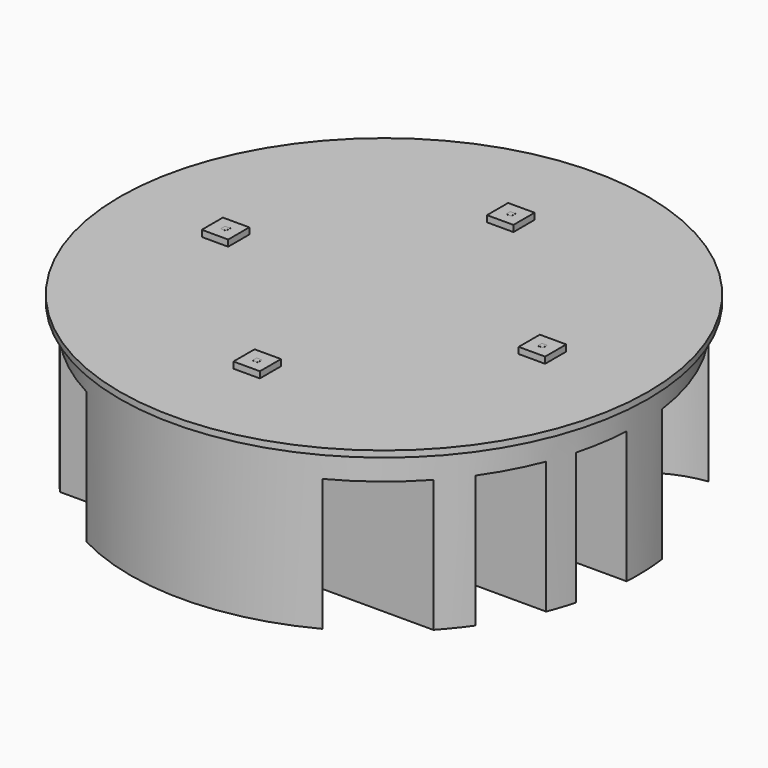
from build123d import *

# Parameters (mm, degrees)
CYLINDER_R        = 50
CYLINDER_DEPTH    = 1.2
CYLINDER001_R     = 48
CYLINDER001_DEPTH = 0.03
BOX_W             = 5
BOX_H             = 5
BOX_DEPTH         = 1.2
BOX001_W          = 5
BOX001_H          = 5
BOX001_DEPTH      = 1.2
BOX002_W          = 5
BOX002_H          = 5
BOX002_DEPTH      = 1.2
BOX003_W          = 5
BOX003_H          = 5
BOX003_DEPTH      = 1.2
BOX004_W          = 1
BOX004_H          = 1
BOX004_DEPTH      = 0.015
BOX005_W          = 1
BOX005_H          = 1
BOX005_DEPTH      = 0.015
BOX006_W          = 1
BOX006_H          = 1
BOX006_DEPTH      = 0.015
BOX007_W          = 1
BOX007_H          = 1
BOX007_DEPTH      = 0.015
SKETCH_R          = 48
EXTRUDE_DEPTH     = 30
SKETCH001_W       = 100
SKETCH001_H       = 10
POCKET_DEPTH      = 25


with BuildPart() as pcb:
    # Cylinder → Cylinder (new body)
    with BuildSketch(Plane.XY):
        Circle(CYLINDER_R)
    extrude(amount=CYLINDER_DEPTH)


with BuildPart() as obj1:
    # Cylinder001 → Cylinder001 (new body)
    with BuildSketch(Plane.XY.offset(-0.03)):
        Circle(CYLINDER001_R)
    extrude(amount=CYLINDER001_DEPTH)


with BuildPart() as slug01:
    # Box → Box (new body)
    with BuildSketch(Plane(origin=(-2.5, 27.5, 1.2), x_dir=(1, 0, 0), z_dir=(0, 0, 1))):
        with Locations((2.5, 2.5)):
            Rectangle(BOX_W, BOX_H)
    extrude(amount=BOX_DEPTH)


with BuildPart() as slug02:
    # Box001 → Box001 (new body)
    with BuildSketch(Plane(origin=(27.5, -2.5, 1.2), x_dir=(1, 0, 0), z_dir=(0, 0, 1))):
        with Locations((2.5, 2.5)):
            Rectangle(BOX001_W, BOX001_H)
    extrude(amount=BOX001_DEPTH)


with BuildPart() as slug03:
    # Box002 → Box002 (new body)
    with BuildSketch(Plane(origin=(-2.5, -32.5, 1.2), x_dir=(1, 0, 0), z_dir=(0, 0, 1))):
        with Locations((2.5, 2.5)):
            Rectangle(BOX002_W, BOX002_H)
    extrude(amount=BOX002_DEPTH)


with BuildPart() as slug04:
    # Box003 → Box003 (new body)
    with BuildSketch(Plane(origin=(-32.5, -2.5, 1.2), x_dir=(1, 0, 0), z_dir=(0, 0, 1))):
        with Locations((2.5, 2.5)):
            Rectangle(BOX003_W, BOX003_H)
    extrude(amount=BOX003_DEPTH)


with BuildPart() as led01:
    # Box004 → Box004 (new body)
    with BuildSketch(Plane(origin=(-0.5, 29.5, 2.4), x_dir=(1, 0, 0), z_dir=(0, 0, 1))):
        with Locations((0.5, 0.5)):
            Rectangle(BOX004_W, BOX004_H)
    extrude(amount=BOX004_DEPTH)


with BuildPart() as led02:
    # Box005 → Box005 (new body)
    with BuildSketch(Plane(origin=(29.5, -0.5, 2.4), x_dir=(1, 0, 0), z_dir=(0, 0, 1))):
        with Locations((0.5, 0.5)):
            Rectangle(BOX005_W, BOX005_H)
    extrude(amount=BOX005_DEPTH)


with BuildPart() as led03:
    # Box006 → Box006 (new body)
    with BuildSketch(Plane(origin=(-0.5, -30.5, 2.4), x_dir=(1, 0, 0), z_dir=(0, 0, 1))):
        with Locations((0.5, 0.5)):
            Rectangle(BOX006_W, BOX006_H)
    extrude(amount=BOX006_DEPTH)


with BuildPart() as led04:
    # Box007 → Box007 (new body)
    with BuildSketch(Plane(origin=(-30.5, -0.5, 2.4), x_dir=(1, 0, 0), z_dir=(0, 0, 1))):
        with Locations((0.5, 0.5)):
            Rectangle(BOX007_W, BOX007_H)
    extrude(amount=BOX007_DEPTH)


with BuildPart() as heatsink:
    # Sketch → Extrude (new body)
    with BuildSketch(Plane(origin=(0, 0, -0.03), x_dir=(1, 0, 0), z_dir=(0, 0, -1))):
        Circle(SKETCH_R)
    extrude(amount=EXTRUDE_DEPTH)

    # Sketch001 → Pocket (cut)
    with BuildSketch(Plane(origin=(0, 0, -30.03), x_dir=(1, 0, 0), z_dir=(0, 0, -1))):
        with Locations((0, 37.5)):
            Rectangle(SKETCH001_W, SKETCH001_H)
        with Locations((0, 22.5)):
            Rectangle(SKETCH001_W, SKETCH001_H)
        with Locations((0, 7.5)):
            Rectangle(SKETCH001_W, SKETCH001_H)
        with BuildLine():
            ThreePointArc((-30.000043, -7.5), (-40.000022, -4.820521), (-50, -7.5))
            Line((-50, -7.5), (-50, -27.5))
            ThreePointArc((-50, -27.5), (-40, -30.179492), (-29.999999, -27.5))
            ThreePointArc((-10, -27.5), (-20, -24.820508), (-29.999999, -27.5))
            ThreePointArc((-10, -27.5), (0, -30.179492), (10, -27.5))
            ThreePointArc((29.999997, -27.5), (19.999999, -24.820509), (10, -27.5))
            ThreePointArc((29.999997, -27.5), (39.999999, -30.179493), (50, -27.5))
            Line((50, -7.5), (50, -27.5))
            ThreePointArc((50, -7.5), (40.000022, -4.820521), (30.000044, -7.5))
            ThreePointArc((9.999977, -7.5), (20.00001, -10.179511), (30.000044, -7.5))
            ThreePointArc((9.999977, -7.5), (0, -4.820521), (-9.999977, -7.5))
            ThreePointArc((-30.000043, -7.5), (-20.00001, -10.179511), (-9.999977, -7.5))
        make_face()
    extrude(amount=-POCKET_DEPTH, mode=Mode.SUBTRACT)


solid = Compound([pcb.part, obj1.part, slug01.part, slug02.part, slug03.part, slug04.part, led01.part, led02.part, led03.part, led04.part, heatsink.part])
